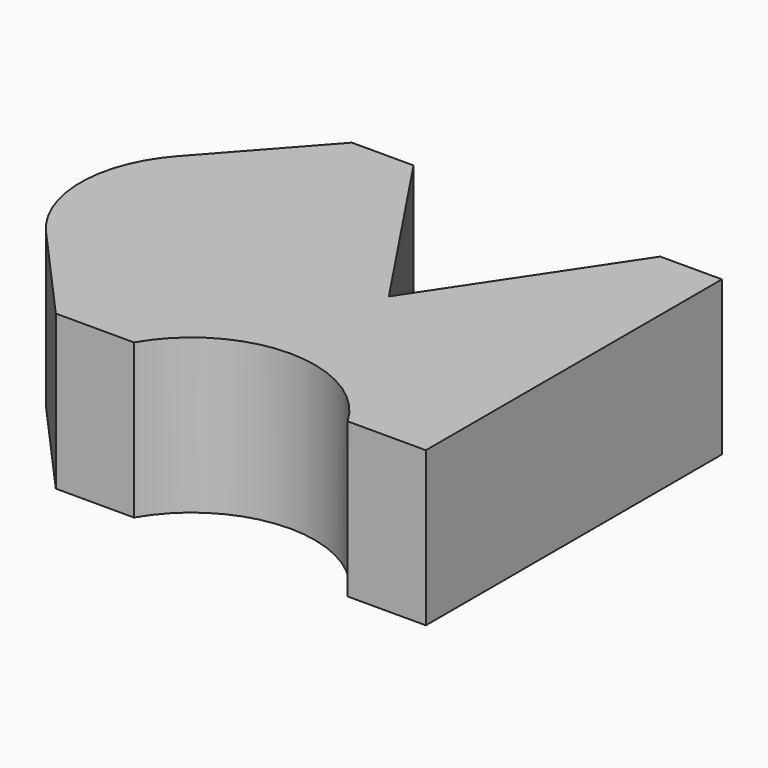
from build123d import *

# Parameters (mm, degrees)
F1_DEPTH = 25


with BuildPart() as f1:
    # F0 (on Top) → F1 (new body)
    with BuildSketch(Plane.XY):
        with BuildLine():
            Line((20, 30), (0, 0))
            Line((0, 0), (-20, 30))
            Line((-20, 30), (-30, 30))
            Line((-30, 30), (-44.90712, 13.333333))
            ThreePointArc((-44.90712, 13.333333), (-22.863558, 18.683447), (-10, 0))
            ThreePointArc((-10, 0), (-22.863558, -18.683447), (-44.90712, -13.333333))
            Line((-44.90712, -13.333333), (-30, -30))
            Line((-30, -30), (-19.895837, -30))
            Line((-19.895837, -30), (-17.320508, -30))
            ThreePointArc((-17.320508, -30), (0, -20), (17.320508, -30))
            Line((17.320508, -30), (30, -30))
            Line((30, -30), (30, 30))
            Line((30, 30), (20, 30))
        make_face()
        with BuildLine():
            ThreePointArc((-10, 0), (-22.863558, 18.683447), (-44.90712, 13.333333))
            ThreePointArc((-44.90712, 13.333333), (-50, 0), (-44.90712, -13.333333))
            ThreePointArc((-44.90712, -13.333333), (-22.863558, -18.683447), (-10, 0))
        make_face()
    extrude(amount=F1_DEPTH)


solid = f1.part
